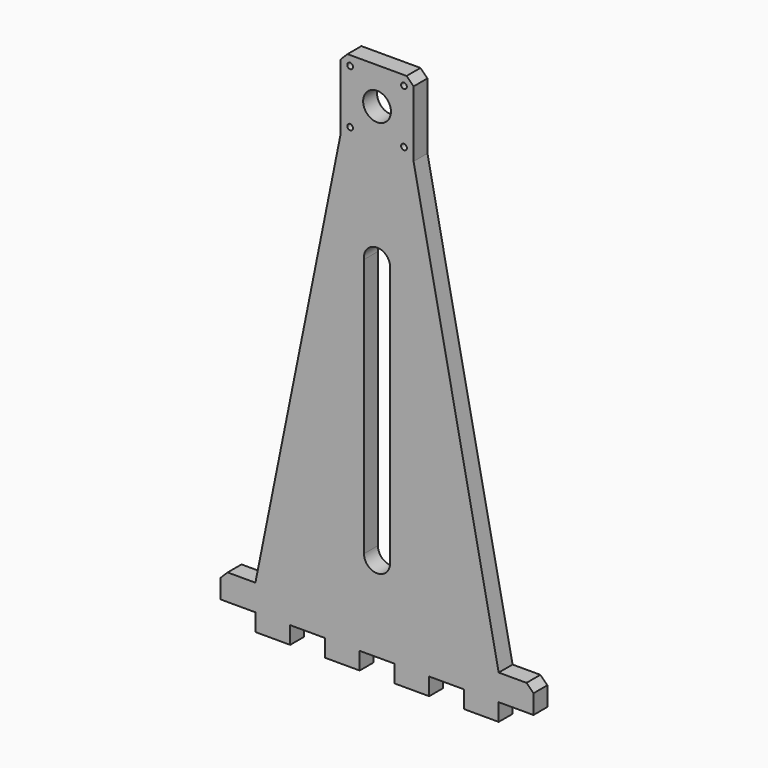
from build123d import *

# Parameters (mm, degrees)
F0_R           = 8
F1_DEPTH       = 10
F2_SIZE        = 4
F3_SIZE        = 4
F4_D           = 3.3
F4_CSINK_D     = 6.72
F4_CSINK_ANGLE = 90
F6_D           = 5
F6_DEPTH       = 8
F6_TIP         = 1.5021515476


with BuildPart() as f1:
    # F0 (on Front) → F1 (new body)
    with BuildSketch(Plane.XZ):
        Polygon((-10, 0), (0, 0), (10, 0), (10, -10), (30, -10), (30, 0), (50, 0), (50, -10), (70, -10), (70, 0), (90, 0), (90, 15), (70, 15), (21, 258), (21, 300), (0, 300), (-21, 300), (-21, 258), (-70, 15), (-90, 15), (-90, 0), (-70, 0), (-70, -10), (-50, -10), (-50, 0), (-30, 0), (-30, -10), (-10, -10), align=None)
        with BuildLine():
            ThreePointArc((7.5, 50), (0, 42.5), (-7.5, 50))
            Line((-7.5, 50), (-7.5, 199.0483840028))
            ThreePointArc((-7.5, 199.0483840028), (0, 207.5601304887), (7.5, 199.0483840028))
            Line((7.5, 199.0483840028), (7.5, 50))
        make_face(mode=Mode.SUBTRACT)
        with Locations((0, 279)):
            Circle(F0_R, mode=Mode.SUBTRACT)
    extrude(amount=F1_DEPTH)

    # F2
    f2_edges = [f1.edges().sort_by_distance(p)[0] for p in [
        (21, -5, 300),
        (-21, -5, 300),
    ]]
    chamfer(f2_edges, length=F2_SIZE)

    # F3
    f3_edges = [f1.edges().sort_by_distance(p)[0] for p in [
        (-90, -5, 15),
        (90, -5, 15),
    ]]
    chamfer(f3_edges, length=F3_SIZE)

    # F4 (through all)
    with Locations(Plane(origin=(0, 0, 0), x_dir=(1, 0, 0), z_dir=(0, 1, 0))):
        with Locations((-15.5, -294.5), (15.5, -294.5), (15.5, -263.5), (-15.5, -263.5)):
            CounterSinkHole(F4_D / 2, F4_CSINK_D / 2, counter_sink_angle=F4_CSINK_ANGLE)

    # F6
    with Locations(Plane(origin=(0, 0, 0), x_dir=(1, 0, 0), z_dir=(0, 0, -1))):
        with Locations((-80, 5), (80, 5)):
            Hole(F6_D / 2, depth=F6_DEPTH)
            with Locations((0, 0, -(F6_DEPTH + F6_TIP / 2))):  # 118° drill point
                Cone(0, F6_D / 2, F6_TIP, mode=Mode.SUBTRACT)


solid = f1.part
